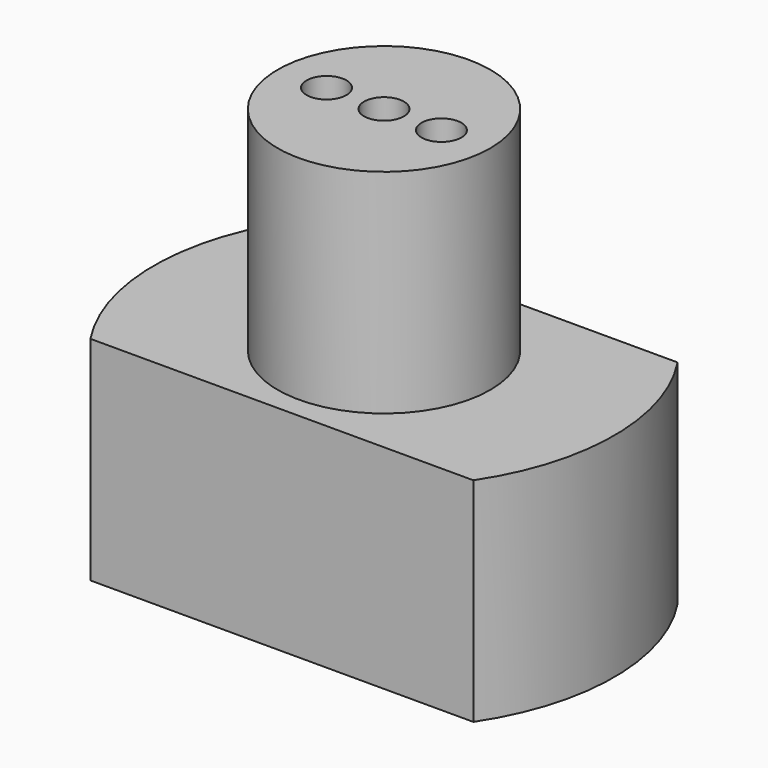
from build123d import *

# Parameters (mm, degrees)
F1_DEPTH = 12.7
F2_R     = 2.54
F3_DEPTH = 12.701
F4_R     = 6.35
F5_DEPTH = 12.7
F6_R     = 2.38125
F7_DEPTH = 6.35
F8_R     = 1.190625
F9_DEPTH = 12.7


with BuildPart() as f1:
    # F0 (on Top) → F1 (new body)
    with BuildSketch(Plane.XY):
        with BuildLine():
            Line((-11.43, -7.62), (11.43, -7.62))
            ThreePointArc((11.43, -7.62), (13.73715, 0), (11.43, 7.62))
            Line((11.43, 7.62), (-11.43, 7.62))
            ThreePointArc((-11.43, 7.62), (-13.73715, 0), (-11.43, -7.62))
        make_face()
    extrude(amount=F1_DEPTH)

    # F2 (on face) → F3 (cut, through all)
    with BuildSketch(Plane.XY.offset(12.7)):
        Circle(F2_R)
    extrude(amount=-F3_DEPTH, mode=Mode.SUBTRACT)

    # F4 (on face) → F5 (join)
    with BuildSketch(Plane.XY.offset(12.7)):
        Circle(F4_R)
    extrude(amount=F5_DEPTH)

    # F6 (on face) → F7 (cut)
    with BuildSketch(Plane(origin=(0, 0, 0), x_dir=(1, 0, 0), z_dir=(0, 0, -1))):
        with Locations((-7.62, 0)):
            Circle(F6_R)
        with Locations((7.62, 0)):
            Circle(F6_R)
    extrude(amount=-F7_DEPTH, mode=Mode.SUBTRACT)

    # F8 (on face) → F9 (cut)
    with BuildSketch(Plane.XY.offset(25.4)):
        with Locations((-3.429, 0)):
            Circle(F8_R)
        with Locations((3.429, 0)):
            Circle(F8_R)
        Circle(F8_R)
    extrude(amount=-F9_DEPTH, mode=Mode.SUBTRACT)


solid = f1.part
